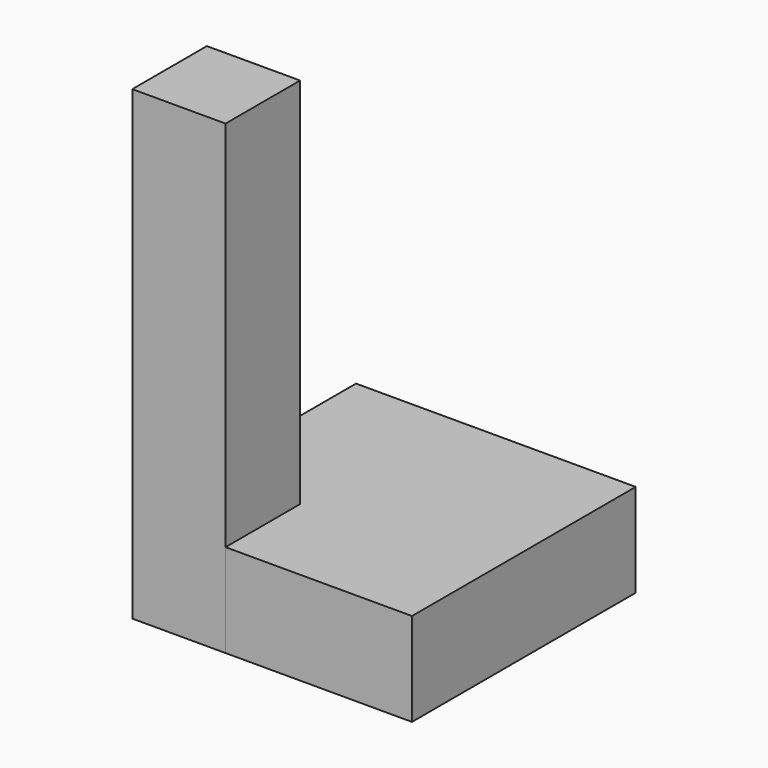
from build123d import *

# Parameters (mm, degrees)
BOX_W        = 30
BOX_H        = 30
BOX_DEPTH    = 10
BOX001_W     = 10
BOX001_H     = 10
BOX001_DEPTH = 50


with BuildPart() as cubo:
    # Box → Box (new body)
    with BuildSketch(Plane.XY):
        with Locations((15, 15)):
            Rectangle(BOX_W, BOX_H)
    extrude(amount=BOX_DEPTH)


with BuildPart() as cubo001:
    # Box001 → Box001 (new body)
    with BuildSketch(Plane.XY):
        with Locations((5, 5)):
            Rectangle(BOX001_W, BOX001_H)
    extrude(amount=BOX001_DEPTH)


solid = Compound([cubo.part, cubo001.part])
